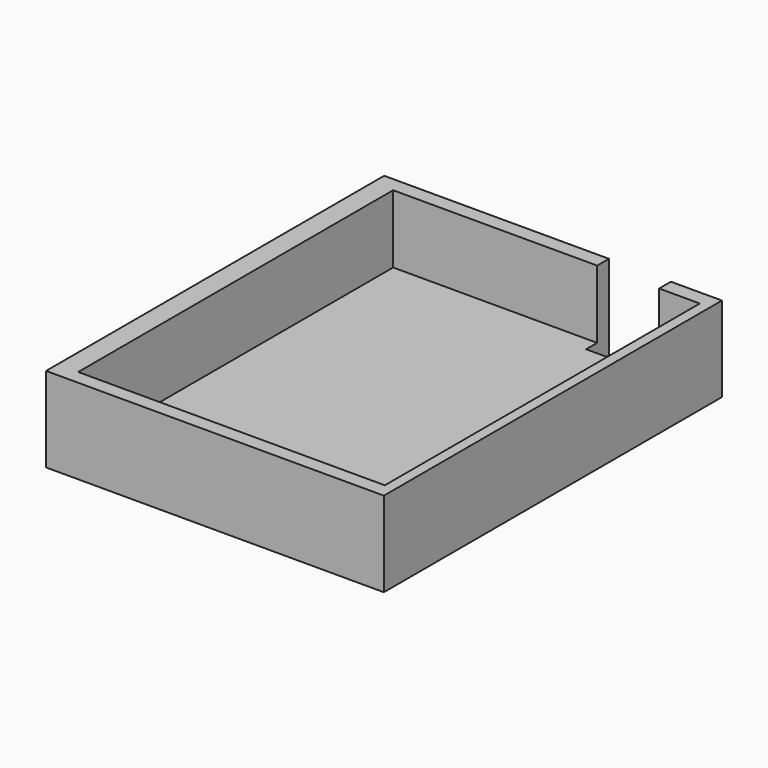
from build123d import *

# Parameters (mm, degrees)
F0_W     = 59.587501
F0_H     = 74.550004
F0_W_2   = 54.1
F0_H_2   = 69.45
F1_DEPTH = 15
F2_W     = 59.587501
F2_H     = 74.550004
F3_DEPTH = 3
F4_W     = 10.931132
F4_H     = 15
F5_DEPTH = 5.0369


with BuildPart() as f1:
    # F0 (on Top) → F1 (new body)
    with BuildSketch(Plane.XY):
        with Locations((7.48125, -14.700002)):
            Rectangle(F0_W, F0_H)
        with Locations((8.4, -14.747789)):
            Rectangle(F0_W_2, F0_H_2, mode=Mode.SUBTRACT)
    extrude(amount=F1_DEPTH)

    # F2 (on face) → F3 (join)
    with BuildSketch(Plane(origin=(0, 0, 0), x_dir=(1, 0, 0), z_dir=(0, 0, -1))):
        with Locations((7.48125, 14.700002)):
            Rectangle(F2_W, F2_H)
    extrude(amount=-F3_DEPTH)

    # F4 (on face) → F5 (cut)
    with BuildSketch(Plane(origin=(0, 22.575, 0), x_dir=(-1, 0, 0), z_dir=(0, 1, 0))):
        with Locations((-22.809435, 7.5)):
            Rectangle(F4_W, F4_H)
    extrude(amount=-F5_DEPTH, mode=Mode.SUBTRACT)


solid = f1.part
